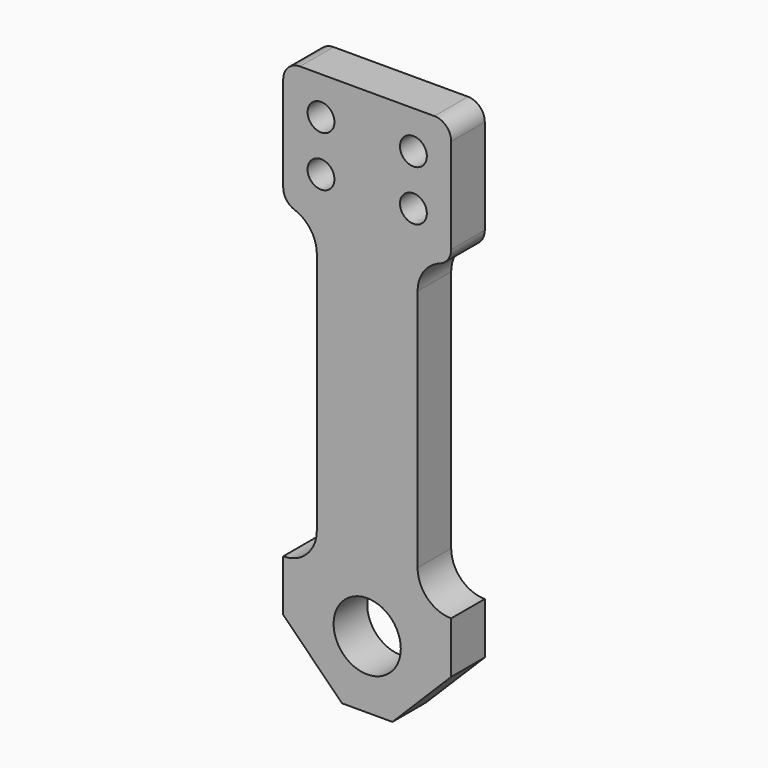
from build123d import *

# Parameters (mm, degrees)
F0_R     = 4
F0_R_2   = 1.6
F1_DEPTH = 5
F2_R     = 2


with BuildPart() as f1:
    # F0 (on Front) → F1 (new body)
    with BuildSketch(Plane.XZ):
        with BuildLine():
            Line((10, 57.131427), (-10, 57.131427))
            Line((-10, 57.131427), (-10, 42.131427))
            ThreePointArc((-10, 42.131427), (-7.171573, 40.959855), (-6, 38.131427))
            Line((-6, 38.131427), (-6, 9.131427))
            ThreePointArc((-6, 9.131427), (-7.171573, 6.303), (-10, 5.131427))
            Line((-10, 5.131427), (-10, -1))
            Line((-10, -1), (-3, -8))
            Line((-3, -8), (3, -8))
            Line((3, -8), (10, -1))
            Line((10, -1), (10, 5.131427))
            ThreePointArc((10, 5.131427), (7.171573, 6.303), (6, 9.131427))
            Line((6, 9.131427), (6, 38.131427))
            ThreePointArc((6, 38.131427), (7.171573, 40.959855), (10, 42.131427))
            Line((10, 42.131427), (10, 57.131427))
        make_face()
        Circle(F0_R, mode=Mode.SUBTRACT)
        with Locations((-5.5, 46.631427)):
            Circle(F0_R_2, mode=Mode.SUBTRACT)
        with Locations((-5.5, 52.631427)):
            Circle(F0_R_2, mode=Mode.SUBTRACT)
        with Locations((5.5, 46.631427)):
            Circle(F0_R_2, mode=Mode.SUBTRACT)
        with Locations((5.5, 52.631427)):
            Circle(F0_R_2, mode=Mode.SUBTRACT)
    extrude(amount=F1_DEPTH)

    # F2
    f2_edges = [f1.edges().sort_by_distance(p)[0] for p in [
        (10, -2.5, 57.131427),
        (10, -2.5, 42.131427),
        (-10, -2.5, 42.131427),
        (-10, -2.5, 57.131427),
    ]]
    fillet(f2_edges, radius=F2_R)


solid = f1.part
